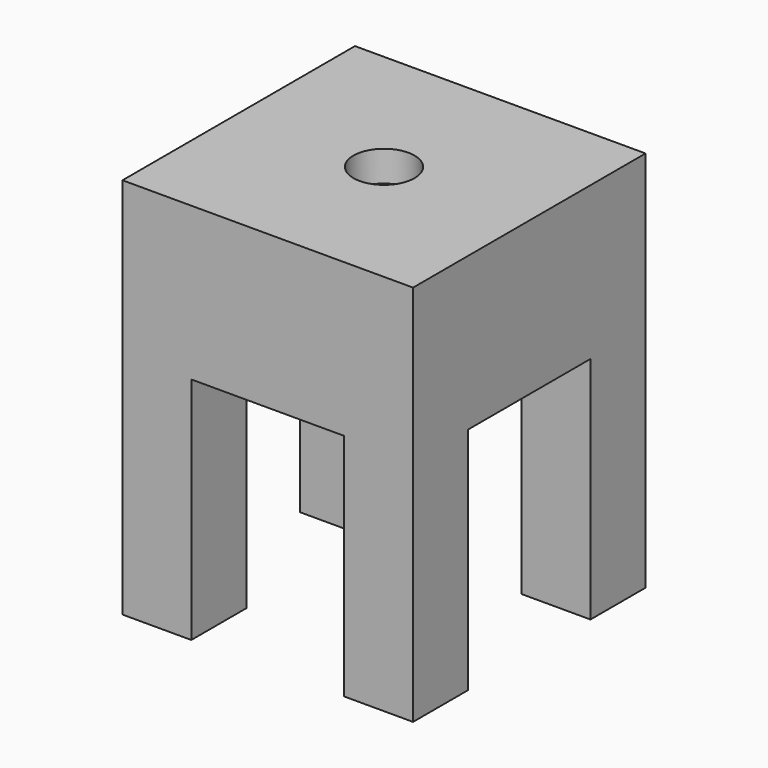
from build123d import *

# Parameters (mm, degrees)
F0_W           = 19
F0_H           = 5
F1_DEPTH       = 9.5
F2_DEPTH       = 9.5
F3_W           = 10
F3_H           = 15
F4_DEPTH       = 25
F6_D           = 4
F6_CBORE_D     = 7
F6_CBORE_DEPTH = 8


with BuildPart() as f1:
    # F0 (on Front) → F1 (new body, symmetric)
    with BuildSketch(Plane.XZ):
        with Locations((-7.338427, -8.679005)):
            Rectangle(F0_W, F0_H)
    extrude(amount=F1_DEPTH, both=True)

    # F0 (on Front) → F2 (join, symmetric)
    with BuildSketch(Plane.XZ):
        Polygon((2.161573, -31.179005), (2.161573, -11.179005), (-16.838427, -11.179005), (-16.838427, -31.179005), (-12.338427, -31.179005), (-12.338427, -16.179005), (-2.338427, -16.179005), (-2.338427, -31.179005), align=None)
    extrude(amount=F2_DEPTH, both=True)

    # F3 (on face) → F4 (cut)
    with BuildSketch(Plane(origin=(-16.838427, 0, 0), x_dir=(0, -1, 0), z_dir=(-1, 0, 0))):
        with Locations((0, -23.679005)):
            Rectangle(F3_W, F3_H)
    extrude(amount=-F4_DEPTH, mode=Mode.SUBTRACT)

    # F6 (through all)
    with Locations(Plane(origin=(0, 0, -16.179005), x_dir=(1, 0, 0), z_dir=(0, 0, -1))):
        with Locations((-7.338427, 0)):
            CounterBoreHole(F6_D / 2, F6_CBORE_D / 2, F6_CBORE_DEPTH)


solid = f1.part
